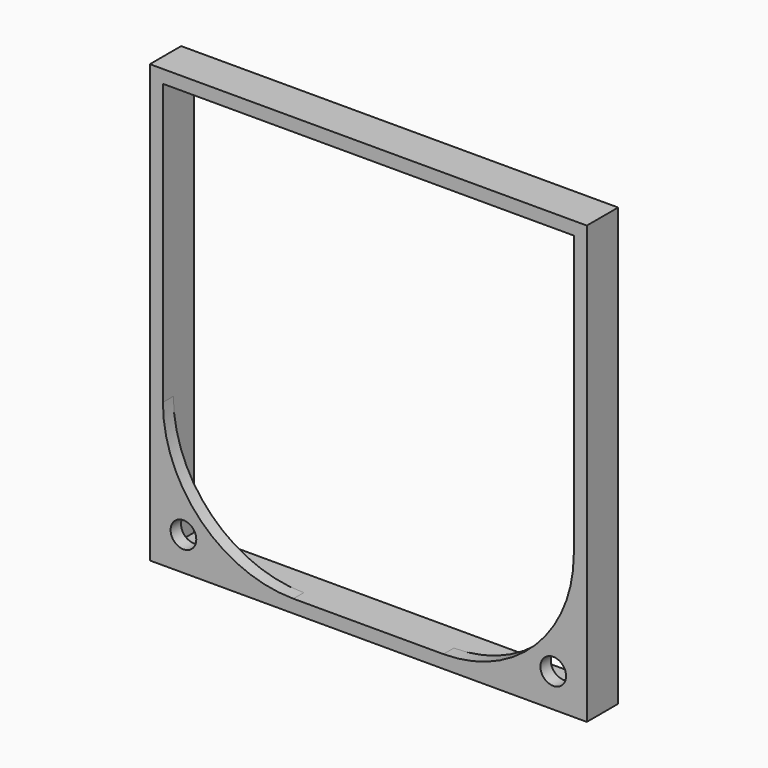
from build123d import *

# Parameters (mm, degrees)
F0_W     = 85.09
F0_H     = 85.09
F0_R     = 2.5
F1_DEPTH = 7.62
F2_W     = 80.01
F2_H     = 80.01
F3_DEPTH = 5.08


with BuildPart() as f1:
    # F0 (on Front) → F1 (new body)
    with BuildSketch(Plane.XZ):
        with Locations((40.005, 40.005)):
            Rectangle(F0_W, F0_H)
        with Locations((4, 4)):
            Circle(F0_R, mode=Mode.SUBTRACT)
        with Locations((76.01, 4)):
            Circle(F0_R, mode=Mode.SUBTRACT)
        with BuildLine():
            ThreePointArc((25.4, 0), (7.439488, 7.439488), (0, 25.4))
            Line((0, 25.4), (0, 80.01))
            Line((0, 80.01), (80.01, 80.01))
            Line((80.01, 80.01), (80.01, 25.4))
            ThreePointArc((80.01, 25.4), (72.570512, 7.439488), (54.61, 0))
            Line((54.61, 0), (25.4, 0))
        make_face(mode=Mode.SUBTRACT)
    extrude(amount=F1_DEPTH)

    # F2 (on face) → F3 (cut)
    with BuildSketch(Plane(origin=(0, 0, 0), x_dir=(-1, 0, 0), z_dir=(0, 1, 0))):
        with Locations((-40.005, 40.005)):
            Rectangle(F2_W, F2_H)
    extrude(amount=-F3_DEPTH, mode=Mode.SUBTRACT)


solid = f1.part
